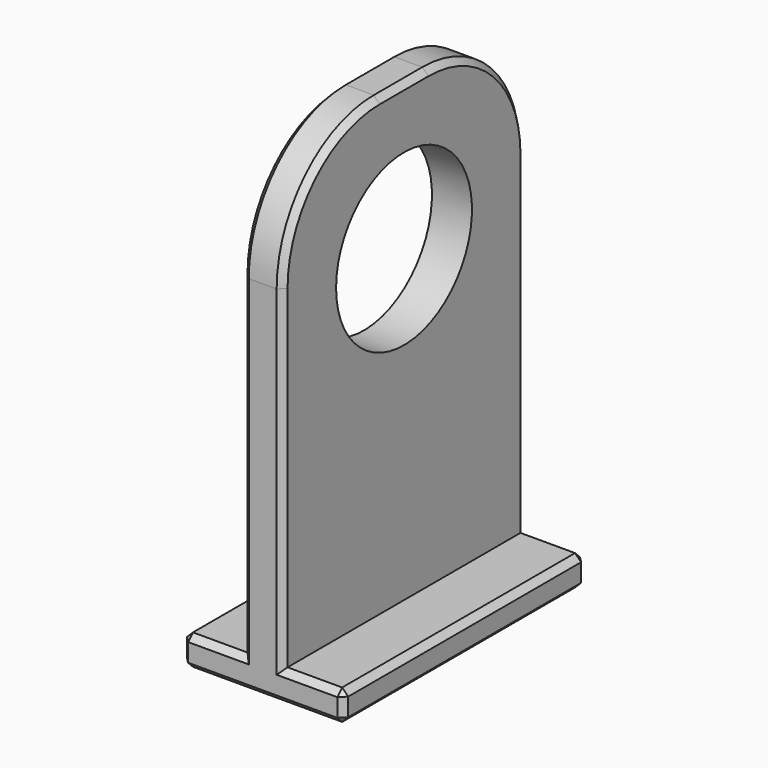
from build123d import *

# Parameters (mm, degrees)
F0_W     = 50
F0_H     = 25
F1_DEPTH = 250
F3_D     = 140
F3_DEPTH = 60
F4_R     = 100
F5_SIZE  = 5


with BuildPart() as f1:
    # F0 (on Front) → F1 (new body)
    with BuildSketch(Plane.XZ):
        Polygon((0, 25), (0, 0), (33, 0), (33, 25), (33, 400), (0, 400), align=None)
        with Locations((-25, 12.5)):
            Rectangle(F0_W, F0_H)
        with Locations((58, 12.5)):
            Rectangle(F0_W, F0_H)
    extrude(amount=F1_DEPTH)

    # F3
    with Locations(Plane.YZ.offset(33)):
        with Locations((-125, 280)):
            Hole(F3_D / 2, depth=F3_DEPTH)

    # F4
    f4_edges = [f1.edges().sort_by_distance(p)[0] for p in [
        (16.5, 0, 400),
        (16.5, -250, 400),
    ]]
    fillet(f4_edges, radius=F4_R)

    # F5
    f5_edges = [f1.edges().sort_by_distance(p)[0] for p in [
        (-50, -125, 25),
        (-50, -125, 0),
        (-50, 0, 12.5),
        (-50, -250, 12.5),
        (-25, -250, 25),
        (0, -250, 162.5),
        (33, -250, 162.5),
        (-25, 0, 25),
        (16.5, 0, 0),
        (58, 0, 25),
        (83, 0, 12.5),
        (83, -125, 25),
        (83, -125, 0),
        (83, -250, 12.5),
        (58, -250, 25),
        (16.5, -250, 0),
    ]]
    chamfer(f5_edges, length=F5_SIZE)


solid = f1.part
